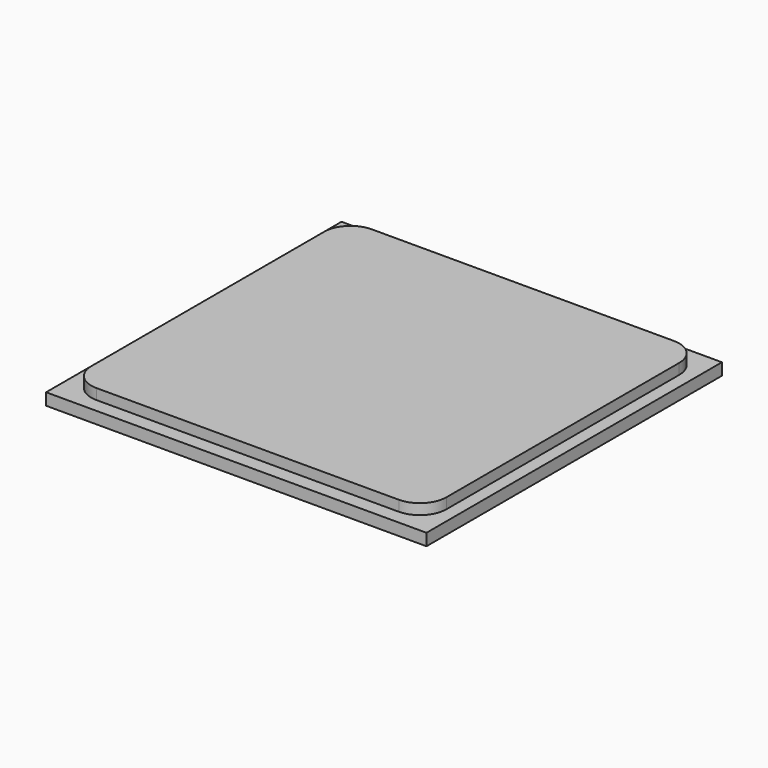
from build123d import *

# Parameters (mm, degrees)
F0_W     = 73.152002
F0_H     = 71.018402
F1_DEPTH = 2.286
F3_W     = 68.275202
F3_H     = 66.141603
F4_DEPTH = 2.032
F5_R     = 5.08
F6_R     = 5.08
F7_R     = 5.08
F8_R     = 5.08


with BuildPart() as f1:
    # F0 (on Top) → F1 (new body)
    with BuildSketch(Plane.XY):
        with Locations((2.743201, 2.438402)):
            Rectangle(F0_W, F0_H)
    extrude(amount=F1_DEPTH)

    # F3 (on face) → F4 (join)
    with BuildSketch(Plane.XY.offset(2.286)):
        with Locations((2.743201, 2.7432)):
            Rectangle(F3_W, F3_H)
    extrude(amount=F4_DEPTH)

    # F5
    f5_edges = [f1.edges().sort_by_distance(p)[0] for p in [
        (36.880802, -30.327601, 3.302),
    ]]
    fillet(f5_edges, radius=F5_R)

    # F6
    f6_edges = [f1.edges().sort_by_distance(p)[0] for p in [
        (-31.3944, -30.327601, 3.302),
    ]]
    fillet(f6_edges, radius=F6_R)

    # F7
    f7_edges = [f1.edges().sort_by_distance(p)[0] for p in [
        (-31.3944, 35.814002, 3.302),
    ]]
    fillet(f7_edges, radius=F7_R)

    # F8
    f8_edges = [f1.edges().sort_by_distance(p)[0] for p in [
        (36.880802, 35.814002, 3.302),
    ]]
    fillet(f8_edges, radius=F8_R)


solid = f1.part
